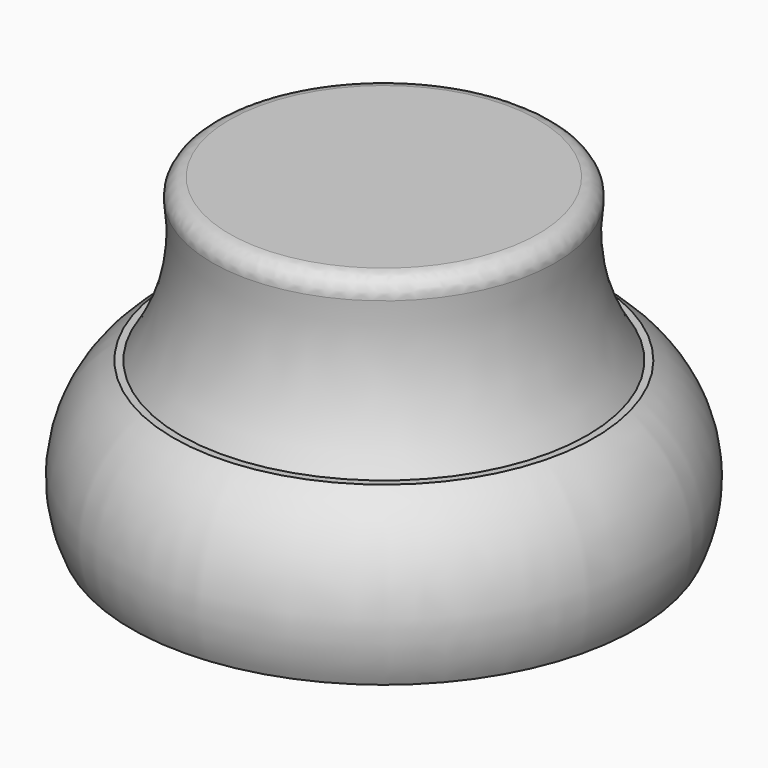
from build123d import *

# Parameters (mm, degrees)
F2_T     = -2.5
F3_R     = 2.4801912713
F4_R     = 7.9445476456
F5_DEPTH = 121.4
F6_R     = 1


with BuildPart() as f1:
    # F0 (on Front) → F1 (revolve)
    with BuildSketch(Plane.XZ):
        with BuildLine():
            Line((-36, 0), (0, 0))
            Line((0, 0), (0, 45))
            Line((0, 45), (-25, 45))
            ThreePointArc((-25, 45), (-24.6260993655, 33.0871477157), (-29, 22))
            Line((-29, 22), (-30, 22))
            ThreePointArc((-30, 22), (-37.0017950758, 12.091398657), (-36, 0))
        make_face()
    revolve(axis=Axis((0, 0, 22.5), (0, 0, -1)))

    # F2
    f2_openings = [f1.faces().sort_by_distance(p)[0] for p in [
        (0, 0, 0),
    ]]
    offset(amount=F2_T, openings=f2_openings, kind=Kind.INTERSECTION)

    # F3
    f3_edges = [f1.edges().sort_by_distance(p)[0] for p in [
        (25, 0, 45),
    ]]
    fillet(f3_edges, radius=F3_R)

    # F4 (on Right) → F5 (cut)
    with BuildSketch(Plane.YZ):
        Circle(F4_R)
    extrude(amount=-F5_DEPTH, mode=Mode.SUBTRACT)

    # F6
    f6_edges = [f1.edges().sort_by_distance(p)[0] for p in [
        (-37.084919, 5.722187, 5.511117),
        (-37.084919, -5.722187, 5.511117),
        (-34.524365, 5.760394, 5.47117),
        (-34.524365, -5.760394, 5.47117),
    ]]
    fillet(f6_edges, radius=F6_R)


solid = f1.part
